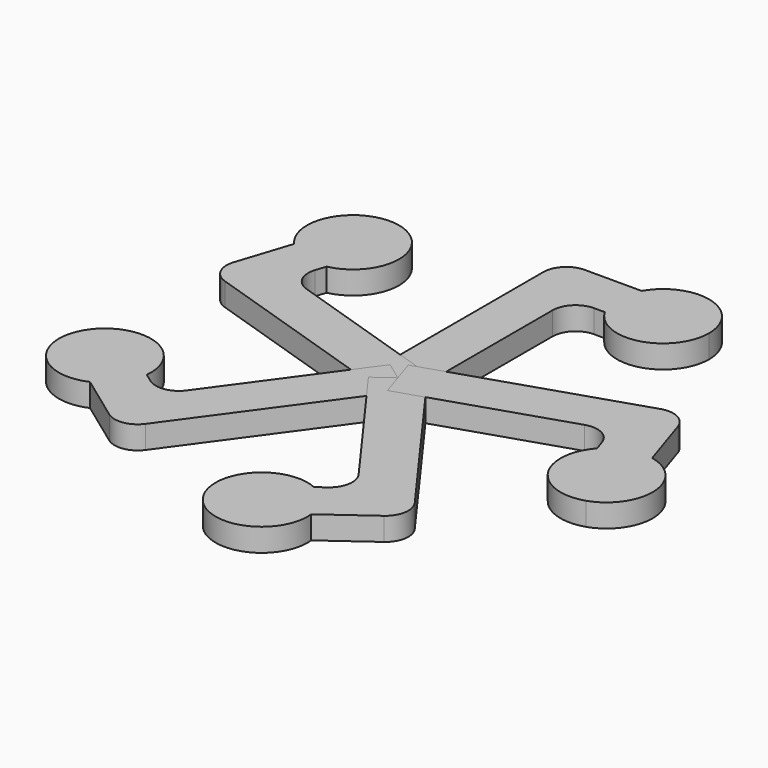
from build123d import *

# Parameters (mm, degrees)
F1_DEPTH = 6.35
F3_COUNT = 5


with BuildPart() as f1:
    # F0 (on Top) → F1 (new body)
    with BuildSketch(Plane.XY):
        with BuildLine():
            ThreePointArc((6.35, 45.446801), (8.209872, 49.936929), (12.7, 51.796801))
            Line((12.7, 51.796801), (15.691392, 51.796801))
            ThreePointArc((15.691392, 51.796801), (13.989914, 58.146801), (15.691391, 64.4968))
            Line((15.691391, 64.4968), (0, 64.4968))
            ThreePointArc((0, 64.4968), (-4.490128, 62.636928), (-6.35, 58.1468))
            Line((-6.35, 58.1468), (-6.35, 0))
            Line((-6.35, 0), (6.35, 0))
            Line((6.35, 0), (6.35, 45.446801))
        make_face()
        with BuildLine():
            ThreePointArc((15.691391, 64.4968), (13.989914, 58.146801), (15.691392, 51.796801))
            ThreePointArc((15.691392, 51.796801), (29.976916, 45.879543), (39.389913, 58.146801))
            ThreePointArc((39.389913, 58.146801), (29.976915, 70.414058), (15.691391, 64.4968))
        make_face()
    extrude(amount=F1_DEPTH)


with BuildPart() as f3_1:
    # F3: instance of F1
    add(f1.part.rotate(Axis((0, 0, 24.782814), (0, 0, 1)), 1 * 360 / F3_COUNT))


with BuildPart() as f3_2:
    # F3: instance of F1
    add(f1.part.rotate(Axis((0, 0, 24.782814), (0, 0, 1)), 2 * 360 / F3_COUNT))


with BuildPart() as f3_3:
    # F3: instance of F1
    add(f1.part.rotate(Axis((0, 0, 24.782814), (0, 0, 1)), 3 * 360 / F3_COUNT))


with BuildPart() as f3_4:
    # F3: instance of F1
    add(f1.part.rotate(Axis((0, 0, 24.782814), (0, 0, 1)), 4 * 360 / F3_COUNT))


solid = Compound([f1.part, f3_1.part, f3_2.part, f3_3.part, f3_4.part])
